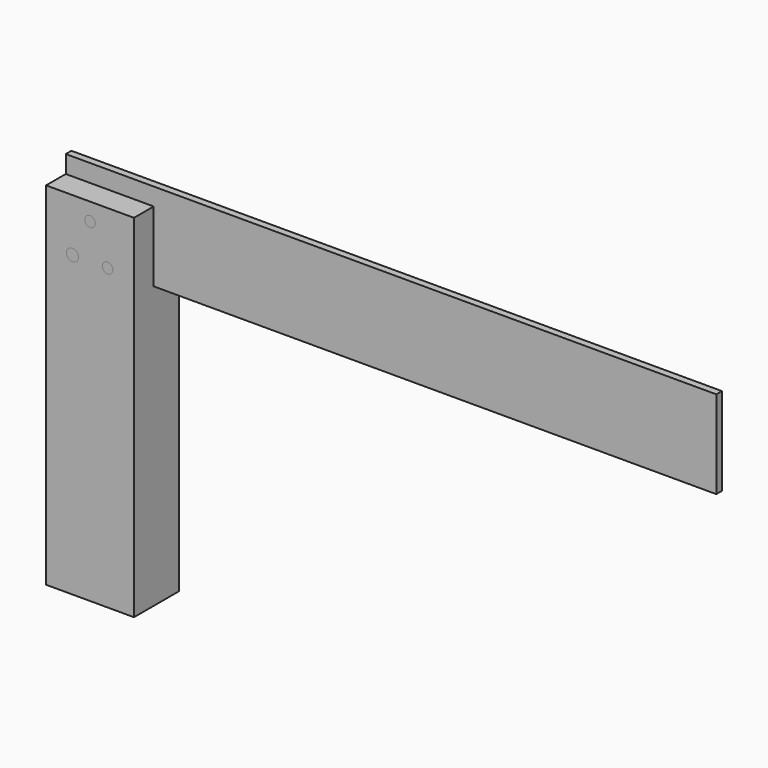
from build123d import *

# Parameters (mm, degrees)
F0_W     = 25
F0_H     = 100
F1_DEPTH = 16
F2_W     = 2
F2_H     = 20
F3_DEPTH = 25
F5_DEPTH = 185
F6_R     = 1.5
F6_R_2   = 1.709082
F7_DEPTH = 16
F8_R     = 1.5
F8_R_2   = 1.709082
F9_DEPTH = 16


with BuildPart() as f1:
    # F0 (on Front) → F1 (new body)
    with BuildSketch(Plane.XZ):
        with Locations((12.5, 50)):
            Rectangle(F0_W, F0_H)
    extrude(amount=-F1_DEPTH)

    # F2 (on face) → F3 (cut, through all)
    with BuildSketch(Plane.YZ.offset(25)):
        with Locations((8, 90)):
            Rectangle(F2_W, F2_H)
    extrude(amount=-F3_DEPTH, mode=Mode.SUBTRACT)


with BuildPart() as f5:
    # F4 (on face) → F5 (new body)
    with BuildSketch(Plane(origin=(0, 0, 0), x_dir=(0, -1, 0), z_dir=(-1, 0, 0))):
        Polygon((-9, 100), (-9, 80), (-7, 80), (-7, 100), (-7, 105), (-9, 105), align=None)
    extrude(amount=-F5_DEPTH)


with BuildPart() as f7_tool:
    # F6 (on face) → F7 (new body, through all)
    with BuildSketch(Plane.XZ):
        with Locations((12.5, 95)):
            Circle(F6_R)
        with Locations((17.5, 85)):
            Circle(F6_R)
        with Locations((7.5, 85)):
            Circle(F6_R_2)
    extrude(amount=-F7_DEPTH)


with BuildPart() as f1_1:
    add(f1.part)

    # F7: cut by f7_tool
    add(f7_tool.part, mode=Mode.SUBTRACT)


with BuildPart() as f5_1:
    add(f5.part)

    # F7: cut by f7_tool
    add(f7_tool.part, mode=Mode.SUBTRACT)


with BuildPart() as f9:
    # F8 (on face) → F9 (new body, through all)
    with BuildSketch(Plane.XZ):
        with Locations((12.5, 95)):
            Circle(F8_R)
        with Locations((7.5, 85)):
            Circle(F8_R_2)
        with Locations((17.5, 85)):
            Circle(F8_R)
    extrude(amount=-F9_DEPTH)


solid = Compound([f1_1.part, f5_1.part, f9.part])
